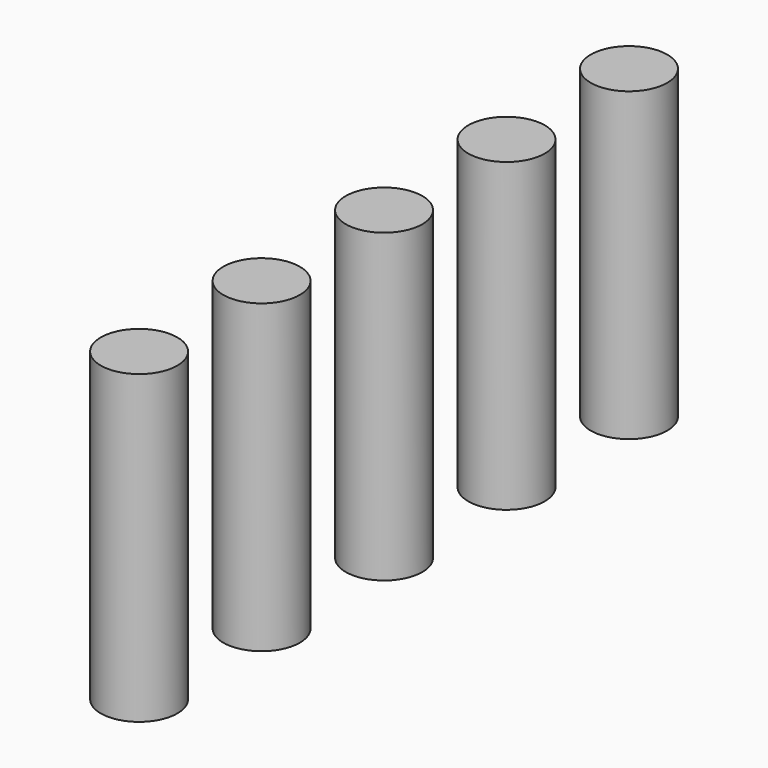
from build123d import *

# Parameters (mm, degrees)
CYLINDER028_R     = 2.5
CYLINDER028_DEPTH = 20
CYLINDER029_R     = 2.5
CYLINDER029_DEPTH = 20
CYLINDER030_R     = 2.5
CYLINDER030_DEPTH = 20
CYLINDER031_R     = 2.5
CYLINDER031_DEPTH = 20
CYLINDER027_R     = 2.5
CYLINDER027_DEPTH = 20


with BuildPart() as cylinder028:
    # cylinder028 → cylinder028 (new body)
    with BuildSketch(Plane(origin=(0, 10, -24.5), x_dir=(1, 0, 0), z_dir=(0, 0, 1))):
        Circle(CYLINDER028_R)
    extrude(amount=CYLINDER028_DEPTH)


with BuildPart() as cylinder029:
    # cylinder029 → cylinder029 (new body)
    with BuildSketch(Plane(origin=(0, 20, -24.5), x_dir=(1, 0, 0), z_dir=(0, 0, 1))):
        Circle(CYLINDER029_R)
    extrude(amount=CYLINDER029_DEPTH)


with BuildPart() as cylinder030:
    # cylinder030 → cylinder030 (new body)
    with BuildSketch(Plane(origin=(0, 30, -24.5), x_dir=(1, 0, 0), z_dir=(0, 0, 1))):
        Circle(CYLINDER030_R)
    extrude(amount=CYLINDER030_DEPTH)


with BuildPart() as cylinder031:
    # cylinder031 → cylinder031 (new body)
    with BuildSketch(Plane(origin=(0, 40, -24.5), x_dir=(1, 0, 0), z_dir=(0, 0, 1))):
        Circle(CYLINDER031_R)
    extrude(amount=CYLINDER031_DEPTH)


with BuildPart() as matrix_union005:
    # cylinder027 → cylinder027 (new body)
    with BuildSketch(Plane.XY.offset(-24.5)):
        Circle(CYLINDER027_R)
    extrude(amount=CYLINDER027_DEPTH)

    # Matrix_Union005: union cylinder028, cylinder029, cylinder030, cylinder031
    add(cylinder028.part)
    add(cylinder029.part)
    add(cylinder030.part)
    add(cylinder031.part)


solid = matrix_union005.part
